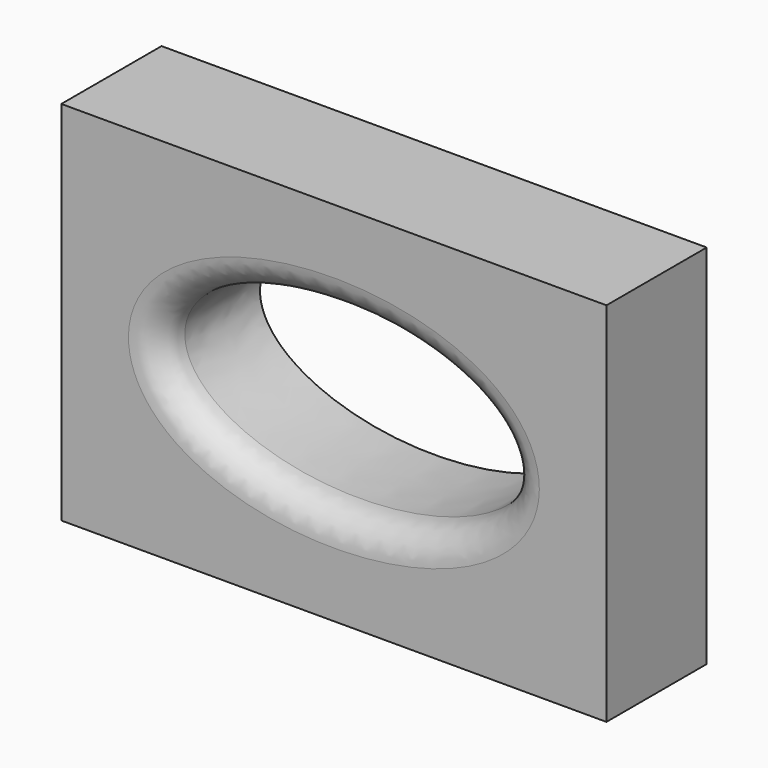
from build123d import *

# Parameters (mm, degrees)
F0_W     = 110.538222
F0_H     = 74.367344
F1_DEPTH = 25.4
F2_R     = 6.35


with BuildPart() as f1:
    # F0 (on Front) → F1 (new body)
    with BuildSketch(Plane.XZ):
        Rectangle(F0_W, F0_H)
        with BuildLine():
            add(Edge.make_bspline(
                [(35.302788, 0), (35.302788, 30.798925), (-17.651394, 15.399462), (-70.605576, 0), (-17.651394, -15.399462), (35.302788, -30.798925), (35.302788, 0)],
                knots=[0, 0, 0, 2.094395, 2.094395, 4.18879, 4.18879, 6.283185, 6.283185, 6.283185], degree=2, weights=[1, 0.5, 1, 0.5, 1, 0.5, 1]))
        make_face(mode=Mode.SUBTRACT)
    extrude(amount=F1_DEPTH)

    # F2
    f2_edges = [f1.edges().sort_by_distance(p)[0] for p in [
        (-35.302788, -25.4, 4e-06),
    ]]
    fillet(f2_edges, radius=F2_R)


solid = f1.part
